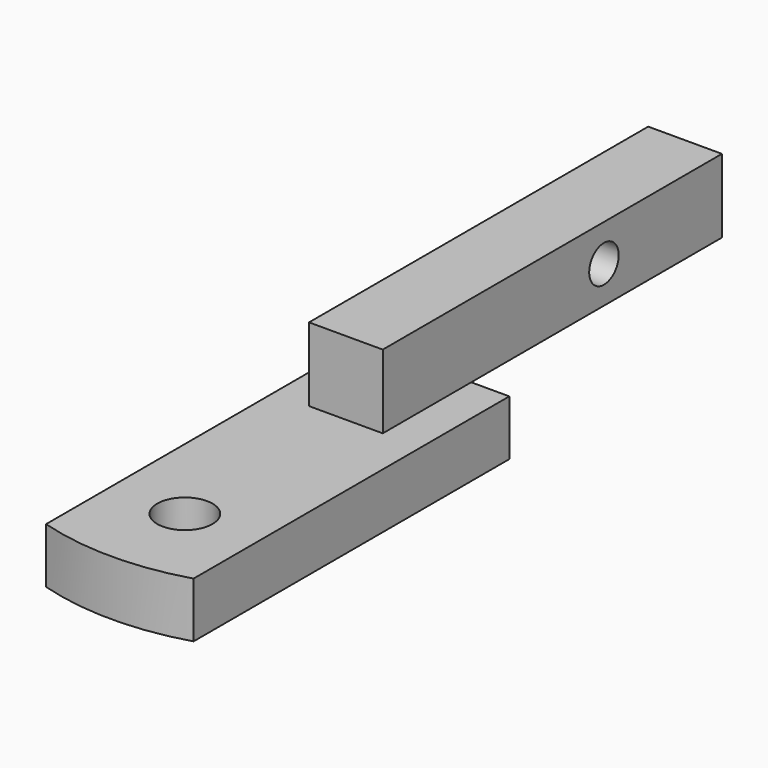
from build123d import *

# Parameters (mm, degrees)
F0_W     = 25.4
F0_H     = 146.05
F1_DEPTH = 25.4
F3_DEPTH = 19.05
F4_R     = 6.35
F5_DEPTH = 37.689491
F6_R     = 9.525
F7_DEPTH = 25.4


with BuildPart() as f1:
    # F0 (on Top) → F1 (new body)
    with BuildSketch(Plane.XY):
        with Locations((-0.411509, 73.025)):
            Rectangle(F0_W, F0_H)
    extrude(amount=F1_DEPTH)

    # F2 (on Top) → F3 (join)
    with BuildSketch(Plane.XY):
        with BuildLine():
            Line((25.4, 38.1), (0, 38.1))
            Line((0, 38.1), (-25.4, 38.1))
            Line((-25.4, 38.1), (-25.4, -97.86834))
            ThreePointArc((-25.4, -97.86834), (0, -101.6), (25.4, -97.86834))
            Line((25.4, -97.86834), (25.4, 38.1))
        make_face()
    extrude(amount=-F3_DEPTH)

    # F4 (on face) → F5 (cut, through all)
    with BuildSketch(Plane.YZ.offset(12.288491)):
        with Locations((95.25, 12.7)):
            Circle(F4_R)
    extrude(amount=-F5_DEPTH, mode=Mode.SUBTRACT)

    # F6 (on face) → F7 (cut)
    with BuildSketch(Plane.XY):
        with Locations((0, -69.85)):
            Circle(F6_R)
    extrude(amount=-F7_DEPTH, mode=Mode.SUBTRACT)


solid = f1.part
